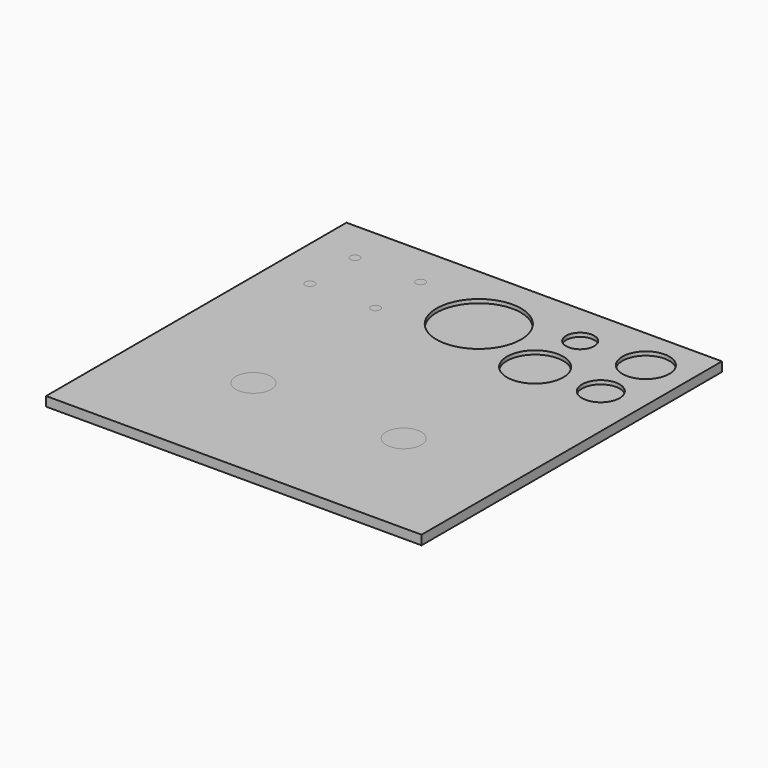
from build123d import *

# Parameters (mm, degrees)
F0_W     = 50.8
F0_H     = 50.8
F0_R     = 2.54
F0_R_2   = 3.81
F0_R_3   = 3.175
F0_R_4   = 5.715
F0_R_5   = 1.905
F1_DEPTH = 0.762
F0_W_2   = 4.3815
F0_H_2   = 25.908
F0_R_6   = 0.635
F2_DEPTH = 1.27
F3_DEPTH = 0.762
F4_DEPTH = 1.27
F5_DEPTH = 0.762


with BuildPart() as f1:
    # F0 (on Top) → F1 (new body)
    with BuildSketch(Plane.XY):
        with Locations((0, 9.3726)):
            Rectangle(F0_W, F0_H)
        with BuildLine():
            Line((-20.2565, -12.954), (-20.2565, 12.954))
            Line((-20.2565, 12.954), (-15.875, 12.954))
            Line((-15.875, 12.954), (-8.174038, 1.31389))
            ThreePointArc((-8.174038, 1.31389), (-7.879712, 0.686032), (-7.77875, 0))
            ThreePointArc((-7.77875, 0), (-7.879712, -0.686032), (-8.174038, -1.31389))
            Line((-8.174038, -1.31389), (-15.875, -12.954))
            Line((-15.875, -12.954), (-20.2565, -12.954))
        make_face(mode=Mode.SUBTRACT)
        with BuildLine():
            Line((8.174038, 1.31389), (15.875, 12.954))
            Line((15.875, 12.954), (20.2565, 12.954))
            Line((20.2565, 12.954), (20.2565, -12.954))
            Line((20.2565, -12.954), (15.875, -12.954))
            Line((15.875, -12.954), (8.174038, -1.31389))
            ThreePointArc((8.174038, -1.31389), (7.77875, 0), (8.174038, 1.31389))
        make_face(mode=Mode.SUBTRACT)
        with Locations((-19.685, 21.4376)):
            Circle(F0_R, mode=Mode.SUBTRACT)
        with Locations((-10.795, 21.4376)):
            Circle(F0_R_2, mode=Mode.SUBTRACT)
        with Locations((-19.685, 29.0576)):
            Circle(F0_R_3, mode=Mode.SUBTRACT)
        with Locations((0, 25.4)):
            Circle(F0_R_4, mode=Mode.SUBTRACT)
        with Locations((-10.795, 29.0576)):
            Circle(F0_R_5, mode=Mode.SUBTRACT)
        with Locations((10.795, 21.4376)):
            Circle(F0_R_2, mode=Mode.SUBTRACT)
        with Locations((19.685, 21.4376)):
            Circle(F0_R, mode=Mode.SUBTRACT)
        with Locations((10.795, 29.0576)):
            Circle(F0_R_5, mode=Mode.SUBTRACT)
        with Locations((19.685, 29.0576)):
            Circle(F0_R_3, mode=Mode.SUBTRACT)
    extrude(amount=F1_DEPTH)


with BuildPart() as f2:
    # F0 (on Top) → F2 (new body)
    with BuildSketch(Plane.XY):
        with Locations((0, 9.3726)):
            Rectangle(F0_W, F0_H)
        with BuildLine():
            Line((-20.2565, -12.954), (-20.2565, 12.954))
            Line((-20.2565, 12.954), (-15.875, 12.954))
            Line((-15.875, 12.954), (-8.174038, 1.31389))
            ThreePointArc((-8.174038, 1.31389), (-7.879712, 0.686032), (-7.77875, 0))
            ThreePointArc((-7.77875, 0), (-7.879712, -0.686032), (-8.174038, -1.31389))
            Line((-8.174038, -1.31389), (-15.875, -12.954))
            Line((-15.875, -12.954), (-20.2565, -12.954))
        make_face(mode=Mode.SUBTRACT)
        with BuildLine():
            Line((8.174038, 1.31389), (15.875, 12.954))
            Line((15.875, 12.954), (20.2565, 12.954))
            Line((20.2565, 12.954), (20.2565, -12.954))
            Line((20.2565, -12.954), (15.875, -12.954))
            Line((15.875, -12.954), (8.174038, -1.31389))
            ThreePointArc((8.174038, -1.31389), (7.77875, 0), (8.174038, 1.31389))
        make_face(mode=Mode.SUBTRACT)
        with Locations((-19.685, 21.4376)):
            Circle(F0_R, mode=Mode.SUBTRACT)
        with Locations((-10.795, 21.4376)):
            Circle(F0_R_2, mode=Mode.SUBTRACT)
        with Locations((-19.685, 29.0576)):
            Circle(F0_R_3, mode=Mode.SUBTRACT)
        with Locations((0, 25.4)):
            Circle(F0_R_4, mode=Mode.SUBTRACT)
        with Locations((-10.795, 29.0576)):
            Circle(F0_R_5, mode=Mode.SUBTRACT)
        with Locations((10.795, 21.4376)):
            Circle(F0_R_2, mode=Mode.SUBTRACT)
        with Locations((19.685, 21.4376)):
            Circle(F0_R, mode=Mode.SUBTRACT)
        with Locations((10.795, 29.0576)):
            Circle(F0_R_5, mode=Mode.SUBTRACT)
        with Locations((19.685, 29.0576)):
            Circle(F0_R_3, mode=Mode.SUBTRACT)
        with Locations((-18.06575, 0)):
            Rectangle(F0_W_2, F0_H_2)
        with BuildLine():
            Line((-8.174038, 1.31389), (-15.875, 12.954))
            Line((-15.875, 12.954), (-15.875, -12.954))
            Line((-15.875, -12.954), (-8.174038, -1.31389))
            ThreePointArc((-8.174038, -1.31389), (-12.54125, 0), (-8.174038, 1.31389))
        make_face()
        with BuildLine():
            ThreePointArc((-7.77875, 0), (-7.879712, 0.686032), (-8.174038, 1.31389))
            ThreePointArc((-8.174038, 1.31389), (-12.54125, 0), (-8.174038, -1.31389))
            ThreePointArc((-8.174038, -1.31389), (-7.879712, -0.686032), (-7.77875, 0))
        make_face()
        with Locations((18.06575, 0)):
            Rectangle(F0_W_2, F0_H_2)
        with BuildLine():
            Line((15.875, -12.954), (15.875, 12.954))
            Line((15.875, 12.954), (8.174038, 1.31389))
            ThreePointArc((8.174038, 1.31389), (10.846032, 2.280288), (12.54125, 0))
            ThreePointArc((12.54125, 0), (10.846032, -2.280288), (8.174038, -1.31389))
            Line((8.174038, -1.31389), (15.875, -12.954))
        make_face()
        with BuildLine():
            ThreePointArc((12.54125, 0), (10.846032, 2.280288), (8.174038, 1.31389))
            ThreePointArc((8.174038, 1.31389), (7.77875, 0), (8.174038, -1.31389))
            ThreePointArc((8.174038, -1.31389), (10.846032, -2.280288), (12.54125, 0))
        make_face()
        with Locations((-19.685, 21.4376)):
            Circle(F0_R)
        with Locations((-19.685, 21.4376)):
            Circle(F0_R_6, mode=Mode.SUBTRACT)
        with Locations((-19.685, 29.0576)):
            Circle(F0_R_3)
        with Locations((-19.685, 29.0576)):
            Circle(F0_R_6, mode=Mode.SUBTRACT)
        with Locations((-10.795, 29.0576)):
            Circle(F0_R_5)
        with Locations((-10.795, 29.0576)):
            Circle(F0_R_6, mode=Mode.SUBTRACT)
        with Locations((-10.795, 21.4376)):
            Circle(F0_R_2)
        with Locations((-10.795, 21.4376)):
            Circle(F0_R_6, mode=Mode.SUBTRACT)
        with Locations((-19.685, 21.4376)):
            Circle(F0_R_6)
        with Locations((-10.795, 21.4376)):
            Circle(F0_R_6)
        with Locations((-10.795, 29.0576)):
            Circle(F0_R_6)
        with Locations((-19.685, 29.0576)):
            Circle(F0_R_6)
    extrude(amount=F2_DEPTH)


with BuildPart() as f3:
    # F0 (on Top) → F3 (new body)
    with BuildSketch(Plane.XY):
        with Locations((0, 9.3726)):
            Rectangle(F0_W, F0_H)
        with BuildLine():
            Line((-20.2565, -12.954), (-20.2565, 12.954))
            Line((-20.2565, 12.954), (-15.875, 12.954))
            Line((-15.875, 12.954), (-8.174038, 1.31389))
            ThreePointArc((-8.174038, 1.31389), (-7.879712, 0.686032), (-7.77875, 0))
            ThreePointArc((-7.77875, 0), (-7.879712, -0.686032), (-8.174038, -1.31389))
            Line((-8.174038, -1.31389), (-15.875, -12.954))
            Line((-15.875, -12.954), (-20.2565, -12.954))
        make_face(mode=Mode.SUBTRACT)
        with BuildLine():
            Line((8.174038, 1.31389), (15.875, 12.954))
            Line((15.875, 12.954), (20.2565, 12.954))
            Line((20.2565, 12.954), (20.2565, -12.954))
            Line((20.2565, -12.954), (15.875, -12.954))
            Line((15.875, -12.954), (8.174038, -1.31389))
            ThreePointArc((8.174038, -1.31389), (7.77875, 0), (8.174038, 1.31389))
        make_face(mode=Mode.SUBTRACT)
        with Locations((-19.685, 21.4376)):
            Circle(F0_R, mode=Mode.SUBTRACT)
        with Locations((-10.795, 21.4376)):
            Circle(F0_R_2, mode=Mode.SUBTRACT)
        with Locations((-19.685, 29.0576)):
            Circle(F0_R_3, mode=Mode.SUBTRACT)
        with Locations((0, 25.4)):
            Circle(F0_R_4, mode=Mode.SUBTRACT)
        with Locations((-10.795, 29.0576)):
            Circle(F0_R_5, mode=Mode.SUBTRACT)
        with Locations((10.795, 21.4376)):
            Circle(F0_R_2, mode=Mode.SUBTRACT)
        with Locations((19.685, 21.4376)):
            Circle(F0_R, mode=Mode.SUBTRACT)
        with Locations((10.795, 29.0576)):
            Circle(F0_R_5, mode=Mode.SUBTRACT)
        with Locations((19.685, 29.0576)):
            Circle(F0_R_3, mode=Mode.SUBTRACT)
        with BuildLine():
            ThreePointArc((-7.77875, 0), (-7.879712, 0.686032), (-8.174038, 1.31389))
            ThreePointArc((-8.174038, 1.31389), (-12.54125, 0), (-8.174038, -1.31389))
            ThreePointArc((-8.174038, -1.31389), (-7.879712, -0.686032), (-7.77875, 0))
        make_face()
        with BuildLine():
            Line((-8.174038, 1.31389), (-15.875, 12.954))
            Line((-15.875, 12.954), (-15.875, -12.954))
            Line((-15.875, -12.954), (-8.174038, -1.31389))
            ThreePointArc((-8.174038, -1.31389), (-12.54125, 0), (-8.174038, 1.31389))
        make_face()
        with BuildLine():
            ThreePointArc((12.54125, 0), (10.846032, 2.280288), (8.174038, 1.31389))
            ThreePointArc((8.174038, 1.31389), (7.77875, 0), (8.174038, -1.31389))
            ThreePointArc((8.174038, -1.31389), (10.846032, -2.280288), (12.54125, 0))
        make_face()
        with BuildLine():
            Line((15.875, -12.954), (15.875, 12.954))
            Line((15.875, 12.954), (8.174038, 1.31389))
            ThreePointArc((8.174038, 1.31389), (10.846032, 2.280288), (12.54125, 0))
            ThreePointArc((12.54125, 0), (10.846032, -2.280288), (8.174038, -1.31389))
            Line((8.174038, -1.31389), (15.875, -12.954))
        make_face()
    extrude(amount=F3_DEPTH)


with BuildPart() as f4:
    # F0 (on Top) → F4 (new body)
    with BuildSketch(Plane.XY):
        with Locations((0, 9.3726)):
            Rectangle(F0_W, F0_H)
        with BuildLine():
            Line((-20.2565, -12.954), (-20.2565, 12.954))
            Line((-20.2565, 12.954), (-15.875, 12.954))
            Line((-15.875, 12.954), (-8.174038, 1.31389))
            ThreePointArc((-8.174038, 1.31389), (-7.879712, 0.686032), (-7.77875, 0))
            ThreePointArc((-7.77875, 0), (-7.879712, -0.686032), (-8.174038, -1.31389))
            Line((-8.174038, -1.31389), (-15.875, -12.954))
            Line((-15.875, -12.954), (-20.2565, -12.954))
        make_face(mode=Mode.SUBTRACT)
        with BuildLine():
            Line((8.174038, 1.31389), (15.875, 12.954))
            Line((15.875, 12.954), (20.2565, 12.954))
            Line((20.2565, 12.954), (20.2565, -12.954))
            Line((20.2565, -12.954), (15.875, -12.954))
            Line((15.875, -12.954), (8.174038, -1.31389))
            ThreePointArc((8.174038, -1.31389), (7.77875, 0), (8.174038, 1.31389))
        make_face(mode=Mode.SUBTRACT)
        with Locations((-19.685, 21.4376)):
            Circle(F0_R, mode=Mode.SUBTRACT)
        with Locations((-10.795, 21.4376)):
            Circle(F0_R_2, mode=Mode.SUBTRACT)
        with Locations((-19.685, 29.0576)):
            Circle(F0_R_3, mode=Mode.SUBTRACT)
        with Locations((0, 25.4)):
            Circle(F0_R_4, mode=Mode.SUBTRACT)
        with Locations((-10.795, 29.0576)):
            Circle(F0_R_5, mode=Mode.SUBTRACT)
        with Locations((10.795, 21.4376)):
            Circle(F0_R_2, mode=Mode.SUBTRACT)
        with Locations((19.685, 21.4376)):
            Circle(F0_R, mode=Mode.SUBTRACT)
        with Locations((10.795, 29.0576)):
            Circle(F0_R_5, mode=Mode.SUBTRACT)
        with Locations((19.685, 29.0576)):
            Circle(F0_R_3, mode=Mode.SUBTRACT)
        with Locations((-18.06575, 0)):
            Rectangle(F0_W_2, F0_H_2)
        with Locations((18.06575, 0)):
            Rectangle(F0_W_2, F0_H_2)
        with BuildLine():
            Line((-8.174038, 1.31389), (-15.875, 12.954))
            Line((-15.875, 12.954), (-15.875, -12.954))
            Line((-15.875, -12.954), (-8.174038, -1.31389))
            ThreePointArc((-8.174038, -1.31389), (-12.54125, 0), (-8.174038, 1.31389))
        make_face()
        with BuildLine():
            Line((15.875, -12.954), (15.875, 12.954))
            Line((15.875, 12.954), (8.174038, 1.31389))
            ThreePointArc((8.174038, 1.31389), (10.846032, 2.280288), (12.54125, 0))
            ThreePointArc((12.54125, 0), (10.846032, -2.280288), (8.174038, -1.31389))
            Line((8.174038, -1.31389), (15.875, -12.954))
        make_face()
        with Locations((-19.685, 21.4376)):
            Circle(F0_R)
        with Locations((-19.685, 21.4376)):
            Circle(F0_R_6, mode=Mode.SUBTRACT)
        with Locations((-19.685, 29.0576)):
            Circle(F0_R_3)
        with Locations((-19.685, 29.0576)):
            Circle(F0_R_6, mode=Mode.SUBTRACT)
        with Locations((-10.795, 21.4376)):
            Circle(F0_R_2)
        with Locations((-10.795, 21.4376)):
            Circle(F0_R_6, mode=Mode.SUBTRACT)
        with Locations((-10.795, 29.0576)):
            Circle(F0_R_5)
        with Locations((-10.795, 29.0576)):
            Circle(F0_R_6, mode=Mode.SUBTRACT)
    extrude(amount=F4_DEPTH)


with BuildPart() as f5:
    # F0 (on Top) → F5 (new body)
    with BuildSketch(Plane.XY):
        with Locations((-18.06575, 0)):
            Rectangle(F0_W_2, F0_H_2)
        with BuildLine():
            Line((15.875, -12.954), (15.875, 12.954))
            Line((15.875, 12.954), (8.174038, 1.31389))
            ThreePointArc((8.174038, 1.31389), (10.846032, 2.280288), (12.54125, 0))
            ThreePointArc((12.54125, 0), (10.846032, -2.280288), (8.174038, -1.31389))
            Line((8.174038, -1.31389), (15.875, -12.954))
        make_face()
        with BuildLine():
            ThreePointArc((12.54125, 0), (10.846032, 2.280288), (8.174038, 1.31389))
            ThreePointArc((8.174038, 1.31389), (7.77875, 0), (8.174038, -1.31389))
            ThreePointArc((8.174038, -1.31389), (10.846032, -2.280288), (12.54125, 0))
        make_face()
        with Locations((0, 25.4)):
            Circle(F0_R_4)
        with Locations((10.795, 21.4376)):
            Circle(F0_R_2)
        with Locations((10.795, 29.0576)):
            Circle(F0_R_5)
        with Locations((19.685, 29.0576)):
            Circle(F0_R_3)
        with Locations((19.685, 21.4376)):
            Circle(F0_R)
    extrude(amount=F5_DEPTH)


solid = Compound([f1.part, f2.part, f3.part, f4.part, f5.part])
